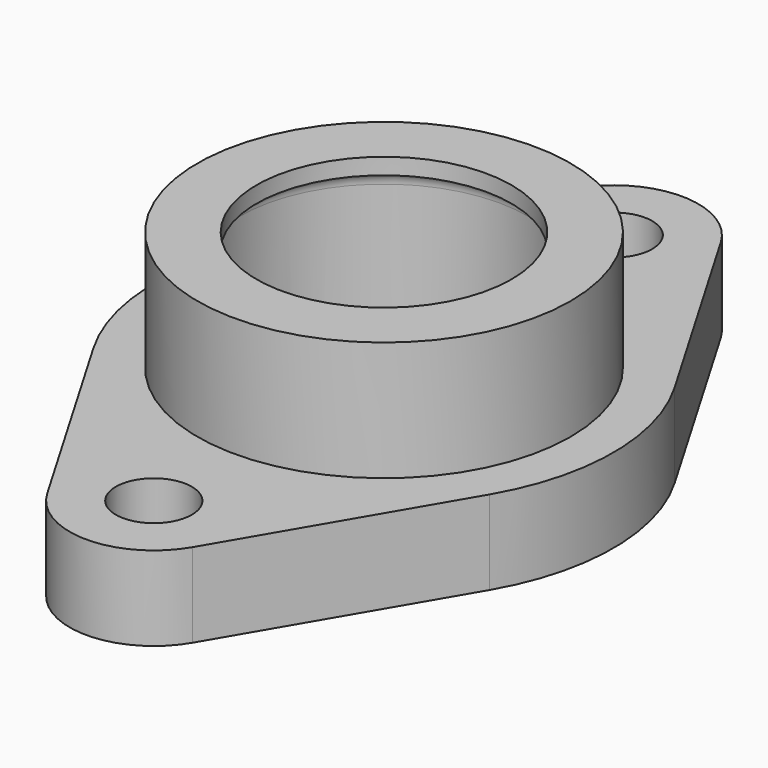
from build123d import *

# Parameters (mm, degrees)
F0_R     = 7.112
F0_R_2   = 34.925
F1_DEPTH = 15.748
F0_R_3   = 23.876
F2_DEPTH = 38.1
F6_DEPTH = 42.927


with BuildPart() as f1:
    # F0 (on Top) → F1 (new body)
    with BuildSketch(Plane.XY):
        with BuildLine():
            Line((-13.59501, 61.796283), (-37.057366, 21.665481))
            ThreePointArc((-37.057366, 21.665481), (-42.926, 0), (-37.057366, -21.665481))
            Line((-37.057366, -21.665481), (-13.59501, -61.796283))
            ThreePointArc((-13.59501, -61.796283), (0, -69.596), (13.59501, -61.796283))
            Line((13.59501, -61.796283), (37.057366, -21.665481))
            ThreePointArc((37.057366, -21.665481), (42.926, 0), (37.057366, 21.665481))
            Line((37.057366, 21.665481), (13.59501, 61.796283))
            ThreePointArc((13.59501, 61.796283), (0, 69.596), (-13.59501, 61.796283))
        make_face()
        with Locations((0, -53.848)):
            Circle(F0_R, mode=Mode.SUBTRACT)
        Circle(F0_R_2, mode=Mode.SUBTRACT)
        with Locations((0, 53.848)):
            Circle(F0_R, mode=Mode.SUBTRACT)
    extrude(amount=F1_DEPTH)

    # F0 (on Top) → F2 (join)
    with BuildSketch(Plane.XY):
        Circle(F0_R_2)
        Circle(F0_R_3, mode=Mode.SUBTRACT)
    extrude(amount=F2_DEPTH)

    # F3 (on Right) → F4 (revolve, cut)
    with BuildSketch(Plane.YZ):
        with BuildLine():
            Line((0, 35.052), (0, 3.048))
            Line((0, 3.048), (23.876, 3.048))
            ThreePointArc((23.876, 3.048), (26.031261, 3.940739), (26.924, 6.096))
            Line((26.924, 6.096), (26.924, 32.004))
            ThreePointArc((26.924, 32.004), (26.031261, 34.159261), (23.876, 35.052))
            Line((23.876, 35.052), (0, 35.052))
        make_face()
    revolve(axis=Axis((0, 0, 19.05), (0, 0, 1)), mode=Mode.SUBTRACT)

    # F5 (on Right) → F6 (cut, through all)
    with BuildSketch(Plane.YZ):
        with BuildLine():
            ThreePointArc((-9.652, 12.7), (-14.478, 7.874), (-9.652, 3.048))
            Line((-9.652, 3.048), (9.652, 3.048))
            ThreePointArc((9.652, 3.048), (14.478, 7.874), (9.652, 12.7))
            Line((9.652, 12.7), (-9.652, 12.7))
        make_face()
    extrude(amount=-F6_DEPTH, mode=Mode.SUBTRACT)


solid = f1.part
